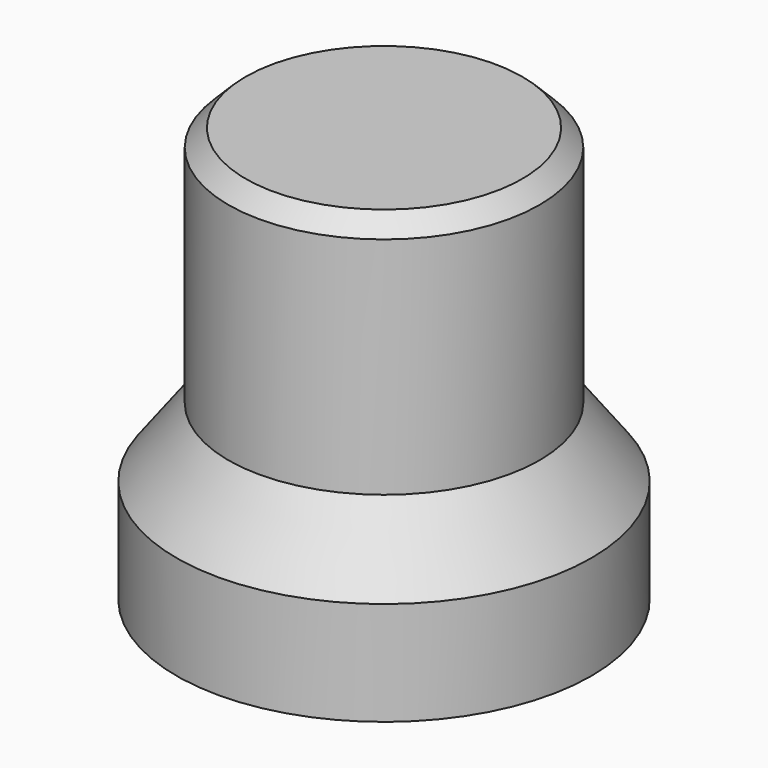
from build123d import *

# Parameters (mm, degrees)
F2_SIZE = 0.5


with BuildPart() as f1:
    # F0 (on Front) → F1 (revolve)
    with BuildSketch(Plane.XZ):
        Polygon((-6, 0.5), (-2, 0.5), (-2, 10.5), (0, 10.5), (0, 12.5), (-4.5, 12.5), (-4.5, 5.5), (-6, 3.5), align=None)
    revolve(axis=Axis((0, 0, 11.5), (0, 0, -1)))

    # F2
    f2_edges = [f1.edges().sort_by_distance(p)[0] for p in [
        (4.5, 0, 12.5),
    ]]
    chamfer(f2_edges, length=F2_SIZE)


solid = f1.part
